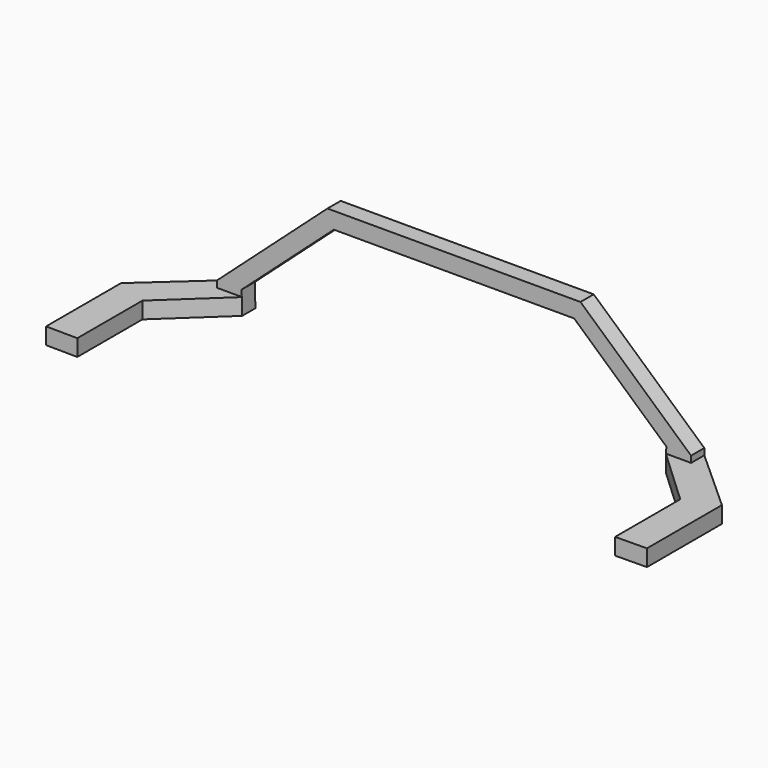
from build123d import *

# Parameters (mm, degrees)
F2_DEPTH = 25.4
F4_DEPTH = 25.4


with BuildPart() as f2:
    # F1 (on face) → F2 (new body)
    with BuildSketch(Plane.XZ):
        Polygon((-194.103704, 152.4), (-184.372237, 127), (0, 127), (0, 152.4), align=None)
        Polygon((-325.784246, 0), (-184.372237, 127), (-194.103704, 152.4), (-363.798115, 0), (-363.798115, -35.230055), (-324.992222, -35.230055), align=None)
        Polygon((0, 152.4), (0, 127), (184.372237, 127), (325.784246, 0), (324.992222, -35.230055), (363.798115, -35.230055), (363.798115, 0), (194.103704, 152.4), align=None)
    extrude(amount=F2_DEPTH)


with BuildPart() as f4:
    # F3 (on face) → F4 (new body)
    with BuildSketch(Plane(origin=(0, 0, -35.230055), x_dir=(1, 0, 0), z_dir=(0, 0, -1))):
        Polygon((-460.945636, 231.472731), (-460.945636, 87.671392), (-363.798115, 0), (-363.798115, 25.4), (-324.992222, 25.4), (-412.577199, 107.146351), (-412.577199, 232.029036), align=None)
        Polygon((412.577199, 107.146351), (324.992222, 25.4), (324.992222, 0), (363.798115, 0), (460.945636, 87.671392), (460.945636, 231.472731), (412.577199, 232.029036), align=None)
    extrude(amount=-F4_DEPTH)


solid = Compound([f2.part, f4.part])
